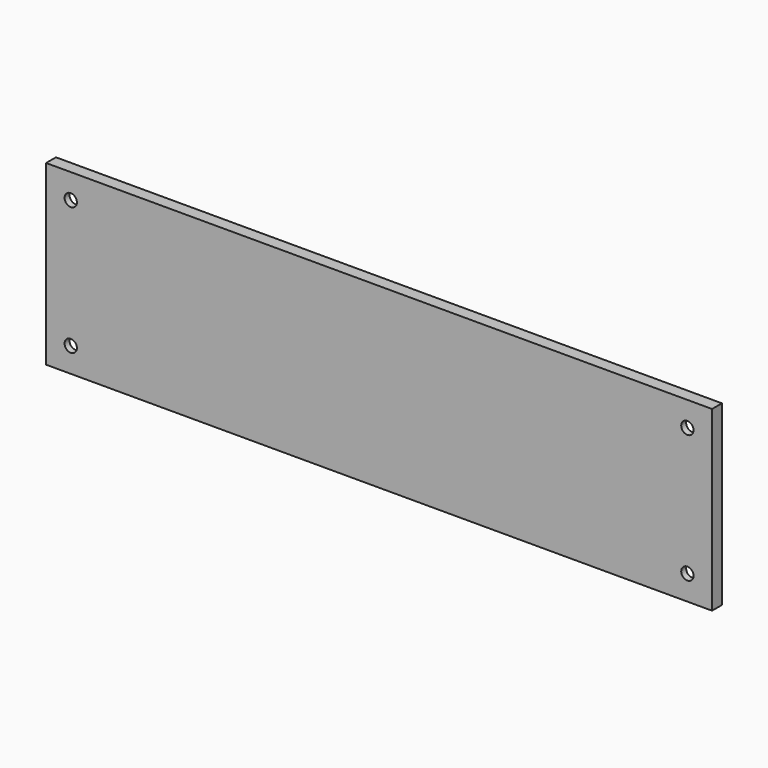
from build123d import *

# Parameters (mm, degrees)
F0_W           = 171.45
F0_H           = 45.72
F1_DEPTH       = 3.175
F3_D           = 3.175
F3_CBORE_D     = 9.525
F3_CBORE_DEPTH = 1.5875


with BuildPart() as f1:
    # F0 (on Front) → F1 (new body)
    with BuildSketch(Plane.XZ):
        Rectangle(F0_W, F0_H)
    extrude(amount=F1_DEPTH)

    # F3 (through all)
    with Locations(Plane(origin=(0, 0, 0), x_dir=(1, 0, 0), z_dir=(0, 1, 0))):
        with Locations((-79.375, 16.51), (79.375, 16.51), (79.375, -16.51), (-79.375, -16.51)):
            CounterBoreHole(F3_D / 2, F3_CBORE_D / 2, F3_CBORE_DEPTH)


solid = f1.part
